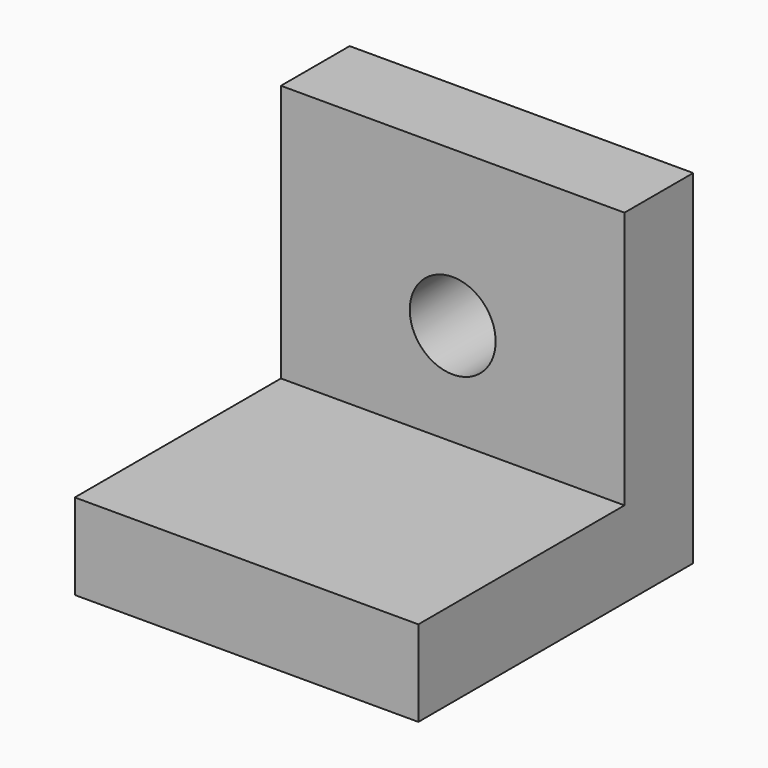
from build123d import *

# Parameters (mm, degrees)
F2_DEPTH = 25.4
F3_D     = 12.7


with BuildPart() as f2:
    # F0 (on Right) → F2 (new body, symmetric)
    with BuildSketch(Plane.YZ):
        Polygon((0, -17.0234058796), (0, 33.7765941204), (-12.7, 33.7765941204), (-12.7, -4.3234058796), (-50.8, -4.3234058796), (-50.8, -17.0234058796), align=None)
    extrude(amount=F2_DEPTH, both=True)

    # F3 (through all)
    with Locations(Plane(origin=(0, 0, 0), x_dir=(1, 0, 0), z_dir=(0, 1, 0))):
        with Locations((0, -10.8021622496)):
            Hole(F3_D / 2)


solid = f2.part
